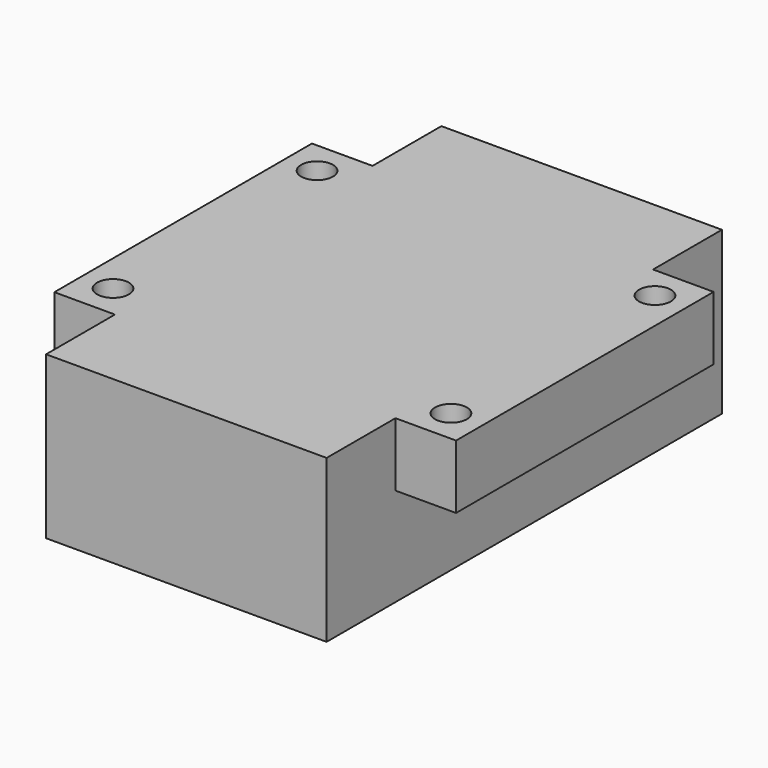
from build123d import *

# Parameters (mm, degrees)
F0_W     = 44
F0_H     = 25.4
F1_DEPTH = 77.5
F3_W     = 63
F3_H     = 50.5
F3_R     = 2.5
F2_W     = 44
F2_H     = 77.5
F4_DEPTH = 10


with BuildPart() as f1:
    # F0 (on Front) → F1 (new body)
    with BuildSketch(Plane.XZ):
        Rectangle(F0_W, F0_H)
    extrude(amount=-F1_DEPTH)

    # F3 (on face) + F2 (on face) → F4 (join)
    with BuildSketch(Plane.XY.offset(12.7)):
        with Locations((0, 38.75)):
            Rectangle(F3_W, F3_H)
        with Locations((-26.5, 18.75)):
            Circle(F3_R, mode=Mode.SUBTRACT)
        with Locations((26.5, 18.75)):
            Circle(F3_R, mode=Mode.SUBTRACT)
        with Locations((-26.5, 58.75)):
            Circle(F3_R, mode=Mode.SUBTRACT)
        with Locations((26.5, 58.75)):
            Circle(F3_R, mode=Mode.SUBTRACT)
    with BuildSketch(Plane.XY.offset(12.7)):
        with Locations((0, 38.75)):
            Rectangle(F2_W, F2_H)
    extrude(amount=-F4_DEPTH)


solid = f1.part
